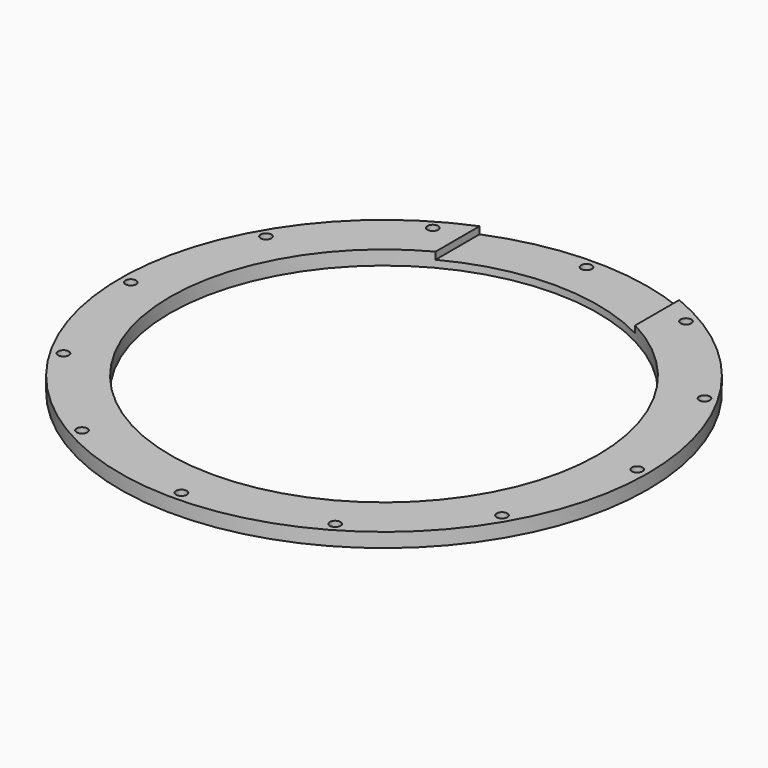
from build123d import *

# Parameters (mm, degrees)
BOX179_W                     = 56
BOX179_H                     = 200
BOX179_DEPTH                 = 47
CYLINDER2007_R               = 1.5
CYLINDER2007_DEPTH           = 72
CYLINDER2007_PLACEMENT_ANGLE = 30
CYLINDER2006_R               = 1.5
CYLINDER2006_DEPTH           = 72
CYLINDER2006_PLACEMENT_ANGLE = 60
CYLINDER2011_R               = 1.5
CYLINDER2011_DEPTH           = 72
CYLINDER2012_R               = 1.5
CYLINDER2012_DEPTH           = 72
CYLINDER2012_PLACEMENT_ANGLE = 120
CYLINDER2013_R               = 1.5
CYLINDER2013_DEPTH           = 72
CYLINDER2013_PLACEMENT_ANGLE = 150
CYLINDER2010_R               = 1.5
CYLINDER2010_DEPTH           = 72
CYLINDER2017_R               = 1.5
CYLINDER2017_DEPTH           = 72
CYLINDER2017_PLACEMENT_ANGLE = 210
CYLINDER2016_R               = 1.5
CYLINDER2016_DEPTH           = 72
CYLINDER2016_PLACEMENT_ANGLE = 240
CYLINDER2015_R               = 1.5
CYLINDER2015_DEPTH           = 72
CYLINDER2008_R               = 1.5
CYLINDER2008_DEPTH           = 72
CYLINDER2008_PLACEMENT_ANGLE = 60
CYLINDER2014_R               = 1.5
CYLINDER2014_DEPTH           = 72
CYLINDER2014_PLACEMENT_ANGLE = 30
CYLINDER2009_R               = 1.5
CYLINDER2009_DEPTH           = 72
TUBE052_R                    = 74
TUBE052_R_2                  = 60
TUBE052_DEPTH                = 4


with BuildPart() as krychle179:
    # Box179 → Box179 (new body)
    with BuildSketch(Plane(origin=(-28, 0, 27), x_dir=(1, 0, 0), z_dir=(0, 0, 1))):
        with Locations((28, 100)):
            Rectangle(BOX179_W, BOX179_H)
    extrude(amount=BOX179_DEPTH)


with BuildPart() as obj1:
    # Cylinder2007 → Cylinder2007 (new body)
    with BuildSketch(Plane.XY):
        Circle(CYLINDER2007_R)
    extrude(amount=CYLINDER2007_DEPTH)


with BuildPart() as obj1_1:
    # Cylinder2007 placement: moved
    add(obj1.part.moved(Location((35.5, -61.487804, 0))).rotate(Axis((35.5, -61.487804, 0), (0, 0, 1)), CYLINDER2007_PLACEMENT_ANGLE))


with BuildPart() as obj2:
    # Cylinder2006 → Cylinder2006 (new body)
    with BuildSketch(Plane.XY):
        Circle(CYLINDER2006_R)
    extrude(amount=CYLINDER2006_DEPTH)


with BuildPart() as obj2_1:
    # Cylinder2006 placement: moved
    add(obj2.part.moved(Location((61.487804, -35.5, 0))).rotate(Axis((61.487804, -35.5, 0), (0, 0, 1)), CYLINDER2006_PLACEMENT_ANGLE))


with BuildPart() as obj3:
    # Cylinder2011 → Cylinder2011 (new body)
    with BuildSketch(Plane(origin=(71, 0, 0), x_dir=(0, 1, 0), z_dir=(0, 0, 1))):
        Circle(CYLINDER2011_R)
    extrude(amount=CYLINDER2011_DEPTH)


with BuildPart() as obj4:
    # Cylinder2012 → Cylinder2012 (new body)
    with BuildSketch(Plane.XY):
        Circle(CYLINDER2012_R)
    extrude(amount=CYLINDER2012_DEPTH)


with BuildPart() as obj4_1:
    # Cylinder2012 placement: moved
    add(obj4.part.moved(Location((61.487804, 35.5, 0))).rotate(Axis((61.487804, 35.5, 0), (0, 0, 1)), CYLINDER2012_PLACEMENT_ANGLE))


with BuildPart() as obj5:
    # Cylinder2013 → Cylinder2013 (new body)
    with BuildSketch(Plane.XY):
        Circle(CYLINDER2013_R)
    extrude(amount=CYLINDER2013_DEPTH)


with BuildPart() as obj5_1:
    # Cylinder2013 placement: moved
    add(obj5.part.moved(Location((35.5, 61.487804, 0))).rotate(Axis((35.5, 61.487804, 0), (0, 0, 1)), CYLINDER2013_PLACEMENT_ANGLE))


with BuildPart() as obj6:
    # Cylinder2010 → Cylinder2010 (new body)
    with BuildSketch(Plane(origin=(0, 71, 0), x_dir=(-1, 0, 0), z_dir=(0, 0, 1))):
        Circle(CYLINDER2010_R)
    extrude(amount=CYLINDER2010_DEPTH)


with BuildPart() as obj7:
    # Cylinder2017 → Cylinder2017 (new body)
    with BuildSketch(Plane.XY):
        Circle(CYLINDER2017_R)
    extrude(amount=CYLINDER2017_DEPTH)


with BuildPart() as obj7_1:
    # Cylinder2017 placement: moved
    add(obj7.part.moved(Location((-35.5, 61.487804, 0))).rotate(Axis((-35.5, 61.487804, 0), (0, 0, 1)), CYLINDER2017_PLACEMENT_ANGLE))


with BuildPart() as obj8:
    # Cylinder2016 → Cylinder2016 (new body)
    with BuildSketch(Plane.XY):
        Circle(CYLINDER2016_R)
    extrude(amount=CYLINDER2016_DEPTH)


with BuildPart() as obj8_1:
    # Cylinder2016 placement: moved
    add(obj8.part.moved(Location((-61.487804, 35.5, 0))).rotate(Axis((-61.487804, 35.5, 0), (0, 0, 1)), CYLINDER2016_PLACEMENT_ANGLE))


with BuildPart() as obj9:
    # Cylinder2015 → Cylinder2015 (new body)
    with BuildSketch(Plane(origin=(-71, 0, 0), x_dir=(0, -1, 0), z_dir=(0, 0, 1))):
        Circle(CYLINDER2015_R)
    extrude(amount=CYLINDER2015_DEPTH)


with BuildPart() as obj10:
    # Cylinder2008 → Cylinder2008 (new body)
    with BuildSketch(Plane.XY):
        Circle(CYLINDER2008_R)
    extrude(amount=CYLINDER2008_DEPTH)


with BuildPart() as obj10_1:
    # Cylinder2008 placement: moved
    add(obj10.part.moved(Location((-61.487804, -35.5, 0))).rotate(Axis((-61.487804, -35.5, 0), (0, 0, -1)), CYLINDER2008_PLACEMENT_ANGLE))


with BuildPart() as obj11:
    # Cylinder2014 → Cylinder2014 (new body)
    with BuildSketch(Plane.XY):
        Circle(CYLINDER2014_R)
    extrude(amount=CYLINDER2014_DEPTH)


with BuildPart() as obj11_1:
    # Cylinder2014 placement: moved
    add(obj11.part.moved(Location((-35.5, -61.487804, 0))).rotate(Axis((-35.5, -61.487804, 0), (0, 0, -1)), CYLINDER2014_PLACEMENT_ANGLE))


with BuildPart() as compound1084:
    # Cylinder2009 → Cylinder2009 (new body)
    with BuildSketch(Plane(origin=(0, -71, 0), x_dir=(1, 0, 0), z_dir=(0, 0, 1))):
        Circle(CYLINDER2009_R)
    extrude(amount=CYLINDER2009_DEPTH)

    # Compound1084: union obj1, obj2, obj3, obj4, obj5, obj6, obj7, obj8, obj9, obj10, obj11
    add(obj1_1.part)
    add(obj2_1.part)
    add(obj3.part)
    add(obj4_1.part)
    add(obj5_1.part)
    add(obj6.part)
    add(obj7_1.part)
    add(obj8_1.part)
    add(obj9.part)
    add(obj10_1.part)
    add(obj11_1.part)


with BuildPart() as compound1084_1:
    # Compound1084 placement: moved
    add(compound1084.part.moved(Location((0, 0, -4))))


with BuildPart() as cut683:
    # Tube052 → Tube052 (new body)
    with BuildSketch(Plane.XY.offset(25)):
        Circle(TUBE052_R)
        Circle(TUBE052_R_2, mode=Mode.SUBTRACT)
    extrude(amount=TUBE052_DEPTH)

    # Cut678: cut Compound1084
    add(compound1084_1.part, mode=Mode.SUBTRACT)

    # Cut683: cut Krychle179
    add(krychle179.part, mode=Mode.SUBTRACT)


solid = cut683.part
